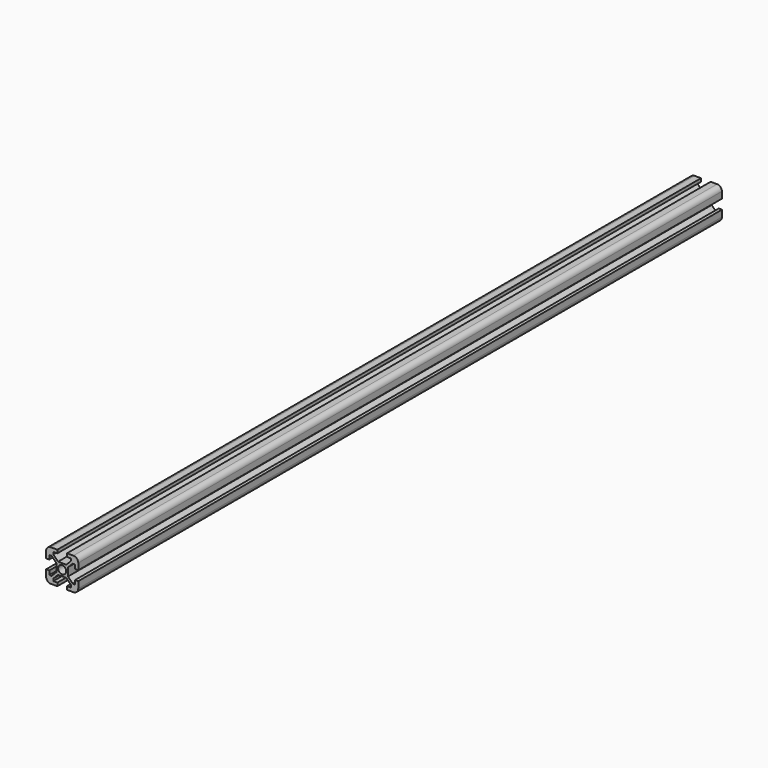
from build123d import *

# Parameters (mm, degrees)
F0_R     = 2.5
F1_DEPTH = 500


with BuildPart() as f1:
    # F0 (on Front) → F1 (new body)
    with BuildSketch(Plane.XZ):
        with BuildLine():
            Line((3, -10), (7, -10))
            ThreePointArc((7, -10), (9.12132, -9.12132), (10, -7))
            Line((10, -7), (10, -3))
            Line((10, -3), (8, -3))
            Line((8, -3), (8, -5.5))
            Line((8, -5.5), (8, -6.93934))
            Line((8, -6.93934), (6.56066, -5.5))
            Line((6.56066, -5.5), (3.6, -2.53934))
            Line((3.6, -2.53934), (3.6, 2.53934))
            Line((3.6, 2.53934), (6.56066, 5.5))
            Line((6.56066, 5.5), (8, 6.93934))
            Line((8, 6.93934), (8, 5.5))
            Line((8, 5.5), (8, 3))
            Line((8, 3), (10, 3))
            Line((10, 3), (10, 7))
            ThreePointArc((10, 7), (9.12132, 9.12132), (7, 10))
            Line((7, 10), (3, 10))
            Line((3, 10), (3, 8))
            Line((3, 8), (5.5, 8))
            Line((5.5, 8), (6.93934, 8))
            Line((6.93934, 8), (5.5, 6.56066))
            Line((5.5, 6.56066), (2.53934, 3.6))
            Line((2.53934, 3.6), (-2.53934, 3.6))
            Line((-2.53934, 3.6), (-5.5, 6.56066))
            Line((-5.5, 6.56066), (-6.93934, 8))
            Line((-6.93934, 8), (-5.5, 8))
            Line((-5.5, 8), (-3, 8))
            Line((-3, 8), (-3, 10))
            Line((-3, 10), (-7, 10))
            ThreePointArc((-7, 10), (-9.12132, 9.12132), (-10, 7))
            Line((-10, 7), (-10, 3))
            Line((-10, 3), (-8, 3))
            Line((-8, 3), (-8, 5.5))
            Line((-8, 5.5), (-8, 6.93934))
            Line((-8, 6.93934), (-6.56066, 5.5))
            Line((-6.56066, 5.5), (-3.6, 2.53934))
            Line((-3.6, 2.53934), (-3.6, -2.53934))
            Line((-3.6, -2.53934), (-6.56066, -5.5))
            Line((-6.56066, -5.5), (-8, -6.93934))
            Line((-8, -6.93934), (-8, -5.5))
            Line((-8, -5.5), (-8, -3))
            Line((-8, -3), (-10, -3))
            Line((-10, -3), (-10, -7))
            ThreePointArc((-10, -7), (-9.12132, -9.12132), (-7, -10))
            Line((-7, -10), (-3, -10))
            Line((-3, -10), (-3, -8))
            Line((-3, -8), (-5.5, -8))
            Line((-5.5, -8), (-6.93934, -8))
            Line((-6.93934, -8), (-5.5, -6.56066))
            Line((-5.5, -6.56066), (-2.53934, -3.6))
            Line((-2.53934, -3.6), (2.53934, -3.6))
            Line((2.53934, -3.6), (5.5, -6.56066))
            Line((5.5, -6.56066), (6.93934, -8))
            Line((6.93934, -8), (5.5, -8))
            Line((5.5, -8), (3, -8))
            Line((3, -8), (3, -10))
        make_face()
        Circle(F0_R, mode=Mode.SUBTRACT)
        Polygon((5.5, -6.56066), (5.5, -8), (6.93934, -8), align=None)
        Polygon((8, -6.93934), (8, -5.5), (6.56066, -5.5), align=None)
        Polygon((-5.5, -8), (-5.5, -6.56066), (-6.93934, -8), align=None)
        Polygon((8, 6.93934), (6.56066, 5.5), (8, 5.5), align=None)
        Polygon((-6.56066, -5.5), (-8, -5.5), (-8, -6.93934), align=None)
        Polygon((6.93934, 8), (5.5, 8), (5.5, 6.56066), align=None)
        Polygon((-8, 5.5), (-6.56066, 5.5), (-8, 6.93934), align=None)
        Polygon((-6.93934, 8), (-5.5, 6.56066), (-5.5, 8), align=None)
    extrude(amount=-F1_DEPTH)


solid = f1.part
